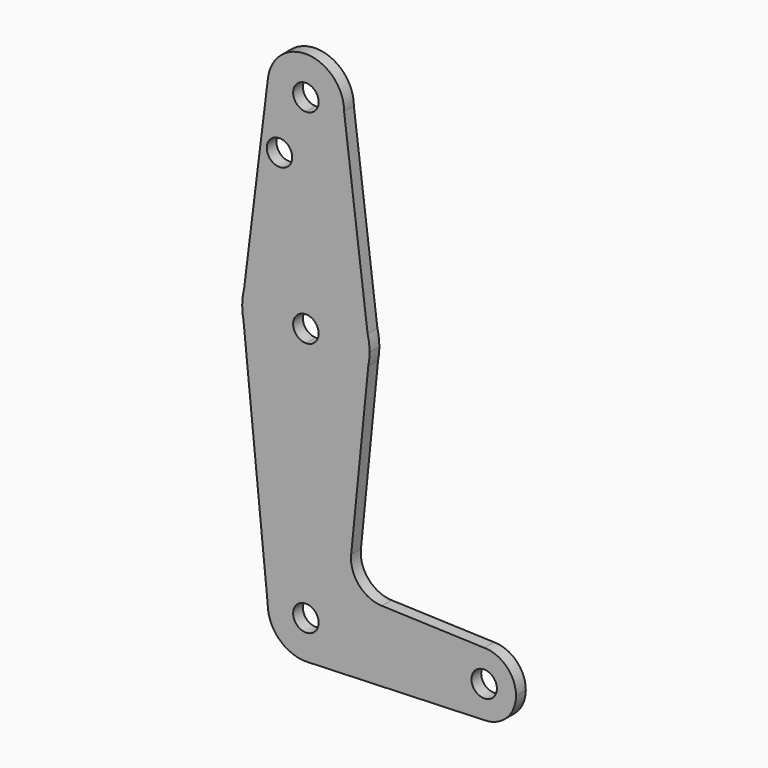
from build123d import *

# Parameters (mm, degrees)
F0_R     = 3.175
F1_DEPTH = 3.048


with BuildPart() as f1:
    # F0 (on Front) → F1 (new body)
    with BuildSketch(Plane.XZ):
        with BuildLine():
            ThreePointArc((-9.525, 0), (-6.7351920908, 6.7351920908), (0, 9.525))
            Line((0, 9.525), (0, 47.625))
            ThreePointArc((0, 47.625), (-10.0526499203, 51.2134278751), (-15.5606435644, 60.3564356436))
            Line((-15.5606435644, 60.3564356436), (-9.525, 0))
        make_face()
        with BuildLine():
            Line((0, 47.625), (0, 9.525))
            ThreePointArc((0, 9.525), (0.3399618281, 9.5189311877), (0.6794904459, 9.5007324841))
            ThreePointArc((0.6794904459, 9.5007324841), (6.9712901065, 6.4905114784), (9.525, 0))
            Line((9.525, 0), (36.5125, 0))
            ThreePointArc((36.5125, 0), (38.8373399243, 5.6126600757), (44.45, 7.9375))
            Line((44.45, 7.9375), (18.9105730062, 8.8496223926))
            ThreePointArc((18.9105730062, 8.8496223926), (13.2053552395, 11.5661923774), (11.2835831424, 17.5858314242))
            Line((11.2835831424, 17.5858314242), (15.5606435644, 60.3564356436))
            ThreePointArc((15.5606435644, 60.3564356436), (10.0526499203, 51.2134278751), (0, 47.625))
        make_face()
        with BuildLine():
            Line((0.6794904459, 9.5007324841), (0, 9.525))
            ThreePointArc((0, 9.525), (-6.7351920908, 6.7351920908), (-9.525, 0))
            ThreePointArc((-9.525, 0), (-6.6134341191, -6.854787681), (0.3412706881, -9.5188843526))
            ThreePointArc((0.3412706881, -9.5188843526), (6.854787681, -6.6134341191), (9.525, 0))
            ThreePointArc((9.525, 0), (6.9712901065, 6.4905114784), (0.6794904459, 9.5007324841))
        make_face()
        Circle(F0_R, mode=Mode.SUBTRACT)
        with BuildLine():
            ThreePointArc((-15.5606435644, 60.3564356436), (-10.0526499203, 51.2134278751), (0, 47.625))
            Line((0, 47.625), (0, 60.325))
            ThreePointArc((0, 60.325), (-3.175, 63.5), (0, 66.675))
            Line((0, 66.675), (0, 79.375))
            ThreePointArc((0, 79.375), (-9.76389722, 76.0172655192), (-15.3974543628, 67.3644565138))
            Line((-15.3974543628, 67.3644565138), (-15.875, 63.5))
            Line((-15.875, 63.5), (-15.5606435644, 60.3564356436))
        make_face()
        with BuildLine():
            Line((0, 60.325), (0, 47.625))
            ThreePointArc((0, 47.625), (10.0526499203, 51.2134278751), (15.5606435644, 60.3564356436))
            Line((15.5606435644, 60.3564356436), (15.875, 63.5))
            Line((15.875, 63.5), (15.3865384615, 67.4076923077))
            ThreePointArc((15.3865384615, 67.4076923077), (9.7463072395, 76.0309664508), (0, 79.375))
            Line((0, 79.375), (0, 66.675))
            ThreePointArc((0, 66.675), (2.2450640303, 65.7450640303), (3.175, 63.5))
            ThreePointArc((3.175, 63.5), (2.2450640303, 61.2549359697), (0, 60.325))
        make_face()
        with BuildLine():
            ThreePointArc((-15.875, 63.5), (-15.7962153946, 61.9203784605), (-15.5606435644, 60.3564356436))
            Line((-15.5606435644, 60.3564356436), (-15.875, 63.5))
        make_face()
        with BuildLine():
            Line((15.875, 63.5), (15.5606435644, 60.3564356436))
            ThreePointArc((15.5606435644, 60.3564356436), (15.7962153946, 61.9203784605), (15.875, 63.5))
        make_face()
        with BuildLine():
            Line((36.5125, 0), (9.525, 0))
            ThreePointArc((9.525, 0), (6.854787681, -6.6134341191), (0.3412706881, -9.5188843526))
            Line((0.3412706881, -9.5188843526), (44.45, -7.9375))
            ThreePointArc((44.45, -7.9375), (38.8373399243, -5.6126600757), (36.5125, 0))
        make_face()
        with BuildLine():
            ThreePointArc((-15.3974543628, 67.3644565138), (-15.7551612656, 65.4469253955), (-15.875, 63.5))
            Line((-15.875, 63.5), (-15.3974543628, 67.3644565138))
        make_face()
        with BuildLine():
            Line((15.3865384615, 67.4076923077), (15.875, 63.5))
            ThreePointArc((15.875, 63.5), (15.7524112928, 65.4690514116), (15.3865384615, 67.4076923077))
        make_face()
        with BuildLine():
            ThreePointArc((44.45, 7.9375), (38.8373399243, 5.6126600757), (36.5125, 0))
            ThreePointArc((36.5125, 0), (38.8373399243, -5.6126600757), (44.45, -7.9375))
            ThreePointArc((44.45, -7.9375), (50.0626600757, -5.6126600757), (52.3875, 0))
            ThreePointArc((52.3875, 0), (50.0626600757, 5.6126600757), (44.45, 7.9375))
        make_face()
        with BuildLine():
            ThreePointArc((47.625, 0), (44.45, -3.175), (41.275, 0))
            ThreePointArc((41.275, 0), (44.45, 3.175), (47.625, 0))
        make_face(mode=Mode.SUBTRACT)
        with BuildLine():
            ThreePointArc((-15.3974543628, 67.3644565138), (-9.76389722, 76.0172655192), (0, 79.375))
            Line((0, 79.375), (0, 104.775))
            ThreePointArc((0, 104.775), (-7.1362561485, 107.991317635), (-9.4530967593, 115.4681552373))
            Line((-9.4530967593, 115.4681552373), (-15.3974543628, 67.3644565138))
        make_face()
        with Locations((-6.5808105282, 100.0252)):
            Circle(F0_R, mode=Mode.SUBTRACT)
        with BuildLine():
            Line((0, 104.775), (0, 79.375))
            ThreePointArc((0, 79.375), (9.7463072395, 76.0309664508), (15.3865384615, 67.4076923077))
            Line((15.3865384615, 67.4076923077), (9.525, 114.3))
            ThreePointArc((9.525, 114.3), (6.7351920908, 107.5648079092), (0, 104.775))
        make_face()
        with BuildLine():
            ThreePointArc((-9.4530967593, 115.4681552373), (-7.1362561485, 107.991317635), (0, 104.775))
            ThreePointArc((0, 104.775), (6.7351920908, 107.5648079092), (9.525, 114.3))
            ThreePointArc((9.525, 114.3), (0.5851830343, 123.8070071956), (-9.4530967593, 115.4681552373))
        make_face()
        with BuildLine():
            ThreePointArc((3.175, 114.3), (2.2450640303, 112.0549359697), (0, 111.125))
            ThreePointArc((0, 111.125), (-2.2450640303, 116.5450640303), (3.175, 114.3))
        make_face(mode=Mode.SUBTRACT)
    extrude(amount=F1_DEPTH)


solid = f1.part
